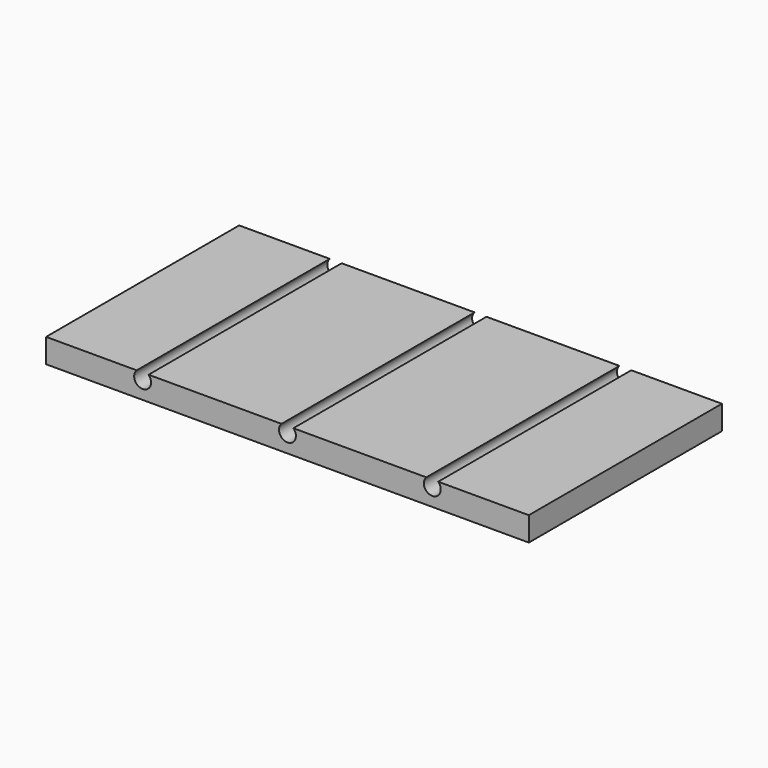
from build123d import *

# Parameters (mm, degrees)
F1_DEPTH = 127


with BuildPart() as f1:
    # F0 (on Front) → F1 (new body)
    with BuildSketch(Plane.XZ):
        with BuildLine():
            Line((0, 12.7), (0, 0))
            Line((0, 0), (254, 0))
            Line((254, 0), (254, 12.7))
            Line((254, 12.7), (206.310852, 12.7))
            ThreePointArc((206.310852, 12.7), (203.2, 5.08), (200.089148, 12.7))
            Line((200.089148, 12.7), (130.110852, 12.7))
            ThreePointArc((130.110852, 12.7), (127, 5.08), (123.889148, 12.7))
            Line((123.889148, 12.7), (53.910852, 12.7))
            ThreePointArc((53.910852, 12.7), (50.8, 5.08), (47.689148, 12.7))
            Line((47.689148, 12.7), (0, 12.7))
        make_face()
    extrude(amount=-F1_DEPTH)


solid = f1.part
